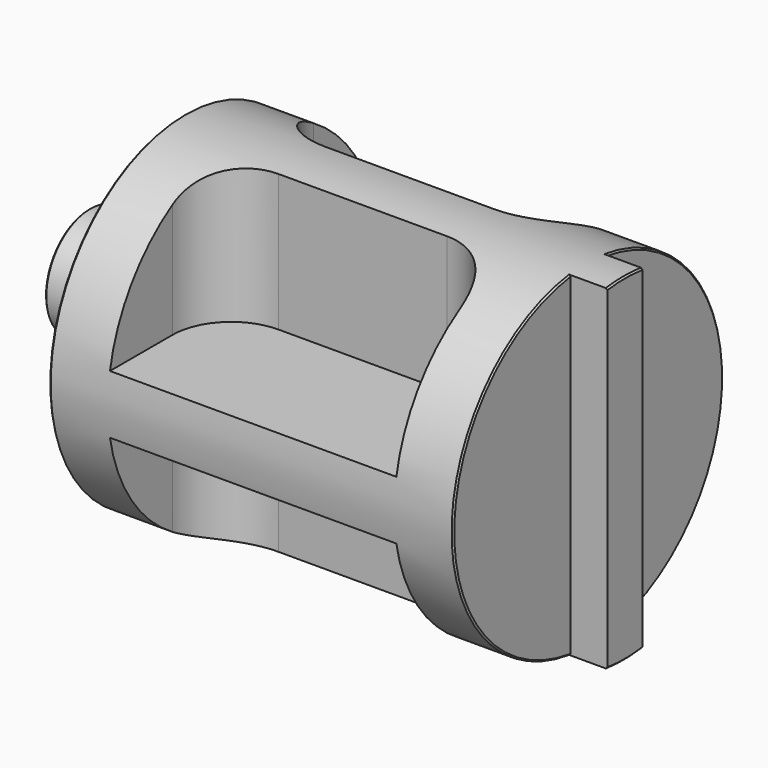
from build123d import *

# Parameters (mm, degrees)
F3_DEPTH  = 5
F6_W      = 39
F6_H      = 21.8819705509
F6_H_2    = 21.9819051884
F7_DEPTH  = 18.6505033058
F8_W      = 39
F8_H      = 30.9849461095
F8_H_2    = 27.3872321026
F9_DEPTH  = 18.6505033058
F11_D     = 6
F11_DEPTH = 10
F11_TIP   = 1.8025818571
F12_SIZE  = 0.2
F13_R     = 8


with BuildPart() as f1:
    # F0 (on Front) → F1 (revolve)
    with BuildSketch(Plane.XZ):
        Polygon((-29.0833324906, 7.475), (-29.0833324906, 0), (43.9166675094, 0), (43.9166675094, 23), (-16.0833324906, 23), (-16.0833324906, 7.475), align=None)
    revolve(axis=Axis((6.4323022962, 0, 0), (1, 0, 0)))

    # F2 (on face) → F3 (cut)
    with BuildSketch(Plane.YZ.offset(43.9166675094)):
        with BuildLine():
            Line((-3, -22.803508502), (-3, 22.803508502))
            ThreePointArc((-3, 22.803508502), (-23, 0), (-3, -22.803508502))
        make_face()
        with BuildLine():
            ThreePointArc((23, 0), (17.2916164658, 15.1657508881), (3, 22.803508502))
            Line((3, 22.803508502), (3, -22.803508502))
            ThreePointArc((3, -22.803508502), (17.2916164658, -15.1657508881), (23, 0))
        make_face()
    extrude(amount=-F3_DEPTH, mode=Mode.SUBTRACT)

    # F6 (on offset) → F7 (cut, through all)
    with BuildSketch(Plane.XY.offset(4)):
        with Locations((11.4166675094, 14.9409852754)):
            Rectangle(F6_W, F6_H)
        with Locations((11.4166675094, -14.9909525942)):
            Rectangle(F6_W, F6_H_2)
    extrude(amount=F7_DEPTH, mode=Mode.SUBTRACT)

    # F8 (on offset) → F9 (cut, through all)
    with BuildSketch(Plane.XY.offset(-4)):
        with Locations((11.4166675094, -19.4924730548)):
            Rectangle(F8_W, F8_H)
        with Locations((11.4166675094, 17.6936160513)):
            Rectangle(F8_W, F8_H_2)
    extrude(amount=-F9_DEPTH, mode=Mode.SUBTRACT)

    # F11
    with Locations(Plane(origin=(-16.0833324906, 0, 0), x_dir=(0, -1, 0), z_dir=(-1, 0, 0))):
        with Locations((13.5, 0)):
            Hole(F11_D / 2, depth=F11_DEPTH)
            with Locations((0, 0, -(F11_DEPTH + F11_TIP / 2))):  # 118° drill point
                Cone(0, F11_D / 2, F11_TIP, mode=Mode.SUBTRACT)

    # F12
    f12_edges = [f1.edges().sort_by_distance(p)[0] for p in [
        (-16.083332, 0, -23),
        (38.916668, 23, 0),
        (38.916668, -23, 0),
        (43.916668, 1.503214, 22.950825),
        (43.916668, 0, -23),
        (43.916668, -1.503214, 22.950825),
        (-29.083332, 0, -7.475),
    ]]
    chamfer(f12_edges, length=F12_SIZE)

    # F13
    f13_edges = [f1.edges().sort_by_distance(p)[0] for p in [
        (-8.083332, -4, 13.324752),
        (30.916668, -4, 13.324752),
        (30.916668, 4, 13.324752),
        (-8.083332, 4, 13.324752),
        (-8.083332, -4, -13.324752),
        (30.916668, -4, -13.324752),
        (-8.083332, 4, -13.324752),
        (30.916668, 4, -13.324752),
    ]]
    fillet(f13_edges, radius=F13_R)


solid = f1.part
